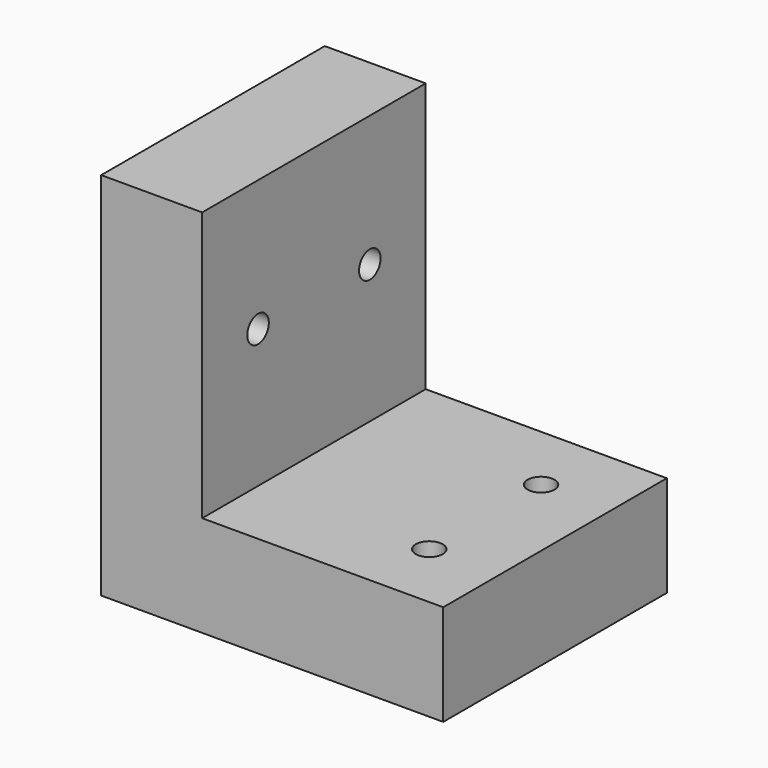
from build123d import *

# Parameters (mm, degrees)
F1_DEPTH = 13.1826
F3_D     = 2.54
F5_D     = 2.54


with BuildPart() as f1:
    # F0 (on Front) → F1 (new body, symmetric)
    with BuildSketch(Plane.XZ):
        Polygon((-22.04417, 16.991249), (-31.56917, 16.991249), (-31.56917, -17.933751), (0.70153, -17.933751), (0.70153, -8.408751), (-22.04417, -8.408751), align=None)
    extrude(amount=F1_DEPTH, both=True)

    # F3 (through all)
    with Locations(Plane.XY.offset(-8.408751)):
        with Locations((-5.88977, 6.5913), (-5.88977, -6.5913)):
            Hole(F3_D / 2)

    # F5 (through all)
    with Locations(Plane.YZ.offset(-22.04417)):
        with Locations((-6.5913, 4.62864), (6.5913, 4.62864)):
            Hole(F5_D / 2)


solid = f1.part
